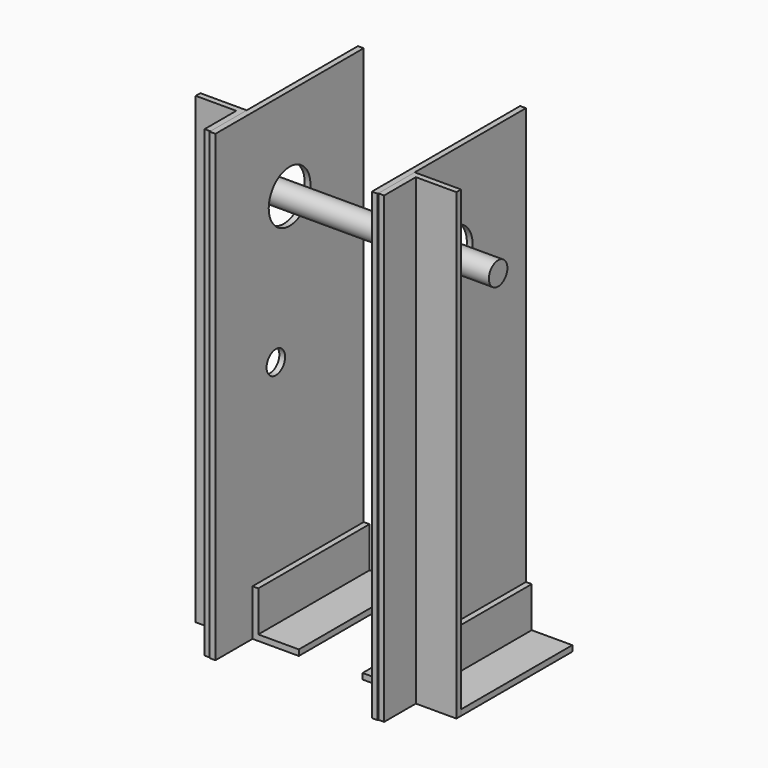
from build123d import *

# Parameters (mm, degrees)
F1_DEPTH       = 76.2
F2_W           = 3.175
F2_H           = 254
F3_DEPTH       = 101.6
F4_R           = 14.2875
F5_DEPTH       = 25.4
F9_DEPTH       = 254
F12_R          = 6.35
F13_DEPTH      = 25.4
F13_DEPTH_BACK = 117.475
F14_R          = 6.35
F15_DEPTH      = 25.4


with BuildPart() as f1:
    # F0 (on Front) → F1 (new body)
    with BuildSketch(Plane.XZ):
        Polygon((-25.4, 0), (0, 0), (0, 25.4), (-3.175, 25.4), (-3.175, 3.175), (-25.4, 3.175), align=None)
    extrude(amount=F1_DEPTH)


with BuildPart() as f3:
    # F2 (on Front) → F3 (new body)
    with BuildSketch(Plane.XZ):
        with Locations((1.5875, 127)):
            Rectangle(F2_W, F2_H)
    extrude(amount=F3_DEPTH)

    # F4 (on face) → F5 (cut)
    with BuildSketch(Plane(origin=(0, 0, 0), x_dir=(0, -1, 0), z_dir=(-1, 0, 0))):
        with Locations((50.8, 203.2)):
            Circle(F4_R)
    extrude(amount=-F5_DEPTH, mode=Mode.SUBTRACT)


with BuildPart() as f7_1:
    # F7: instance of F1
    add(f1.part.mirror(Plane(origin=(1.5875, -50.8, 125.0581364991), x_dir=(0, -1, 0), z_dir=(-1, 0, 0))))


with BuildPart() as f9:
    # F8 (on face) → F9 (new body)
    with BuildSketch(Plane(origin=(0, 0, 0), x_dir=(1, 0, 0), z_dir=(0, 0, -1))):
        Polygon((-25.4, 79.375), (-25.4, 76.2), (0, 76.2), (0, 101.0998785496), (-3.175, 101.0998785496), (-3.175, 79.375), align=None)
    extrude(amount=-F9_DEPTH)


with BuildPart() as f11_1:
    # F11: instance of F3
    add(f3.part.mirror(Plane(origin=(46.0375, -50.8, 125.0581364991), x_dir=(0, -1, 0), z_dir=(-1, 0, 0))))


with BuildPart() as f11_2:
    # F11: instance of F7_1
    add(f7_1.part.mirror(Plane(origin=(46.0375, -50.8, 125.0581364991), x_dir=(0, -1, 0), z_dir=(-1, 0, 0))))


with BuildPart() as f11_3:
    # F11: instance of F9
    add(f9.part.mirror(Plane(origin=(46.0375, -50.8, 125.0581364991), x_dir=(0, -1, 0), z_dir=(-1, 0, 0))))


with BuildPart() as f11_4:
    # F11: instance of F1
    add(f1.part.mirror(Plane(origin=(46.0375, -50.8, 125.0581364991), x_dir=(0, -1, 0), z_dir=(-1, 0, 0))))


with BuildPart() as f13:
    # F12 (on face) → F13 (new body, two sides)
    with BuildSketch(Plane(origin=(0, 0, 0), x_dir=(0, -1, 0), z_dir=(-1, 0, 0))) as f13_sk:
        with Locations((50.8, 203.2)):
            Circle(F12_R)
    extrude(amount=F13_DEPTH)
    extrude(f13_sk.sketch, amount=-F13_DEPTH_BACK)


with BuildPart() as f3_1:
    add(f3.part)

    # F14 (on face) → F15 (cut)
    with BuildSketch(Plane.YZ.offset(3.175)):
        with Locations((-60.2, 127)):
            Circle(F14_R)
    extrude(amount=-F15_DEPTH, mode=Mode.SUBTRACT)


solid = Compound([f1.part, f7_1.part, f9.part, f11_1.part, f11_2.part, f11_3.part, f11_4.part, f13.part, f3_1.part])
